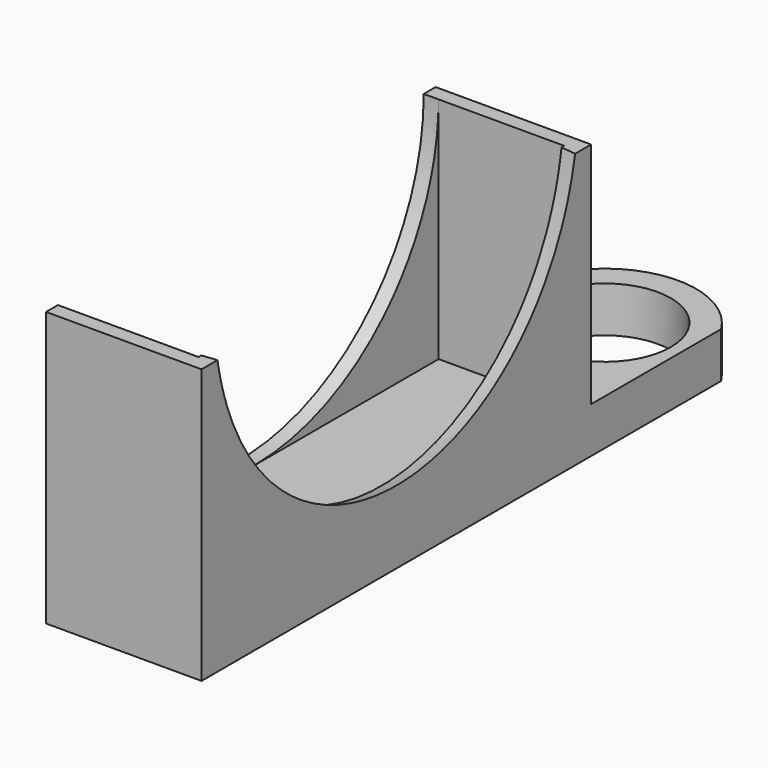
from build123d import *

# Parameters (mm, degrees)
SKETCH001_W   = 13.6
SKETCH001_H   = 42.6
SKETCH001_W_2 = 11
SKETCH001_H_2 = 40
PAD_DEPTH     = 20
SKETCH002_R   = 20
SKETCH005_R   = 5.8
PAD001_DEPTH  = 4


with BuildPart() as part:
    # Sketch001 → Pad (new body)
    with BuildSketch(Plane.XY):
        Rectangle(SKETCH001_W, SKETCH001_H)
        Rectangle(SKETCH001_W_2, SKETCH001_H_2, mode=Mode.SUBTRACT)
    extrude(amount=PAD_DEPTH)

    # Sketch002 → Groove (revolve, cut)
    with BuildSketch(Plane(origin=(-6.8, 0, 0), x_dir=(0, -1, 0), z_dir=(-1, 0, 0))):
        with Locations((0, 20)):
            Circle(SKETCH002_R)
    revolve(axis=Axis((-6.8, 20, 40), (0, -1, 0)), mode=Mode.SUBTRACT)

    # Sketch005 → Pad001 (new body)
    with BuildSketch(Plane(origin=(0, 0, 0), x_dir=(1, 0, 0), z_dir=(0, 0, -1))):
        with BuildLine():
            Line((-6.8, 21.3), (6.8, 21.3))
            Line((6.8, 21.3), (6.8, -35.514262))
            ThreePointArc((-6.8, -35.514262), (0, -39.3), (6.8, -35.514262))
            Line((-6.8, -35.514262), (-6.8, 21.3))
        make_face()
        with Locations((-0.017483, -31.296471)):
            Circle(SKETCH005_R, mode=Mode.SUBTRACT)
    extrude(amount=PAD001_DEPTH)


solid = part.part
